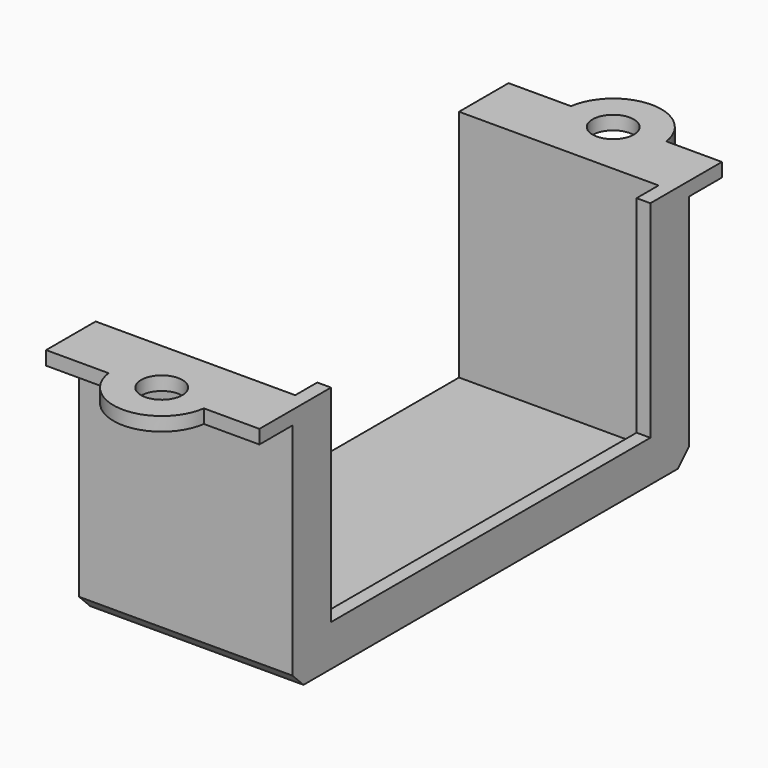
from build123d import *

# Parameters (mm, degrees)
BOX035_W          = 10
BOX035_H          = 29
BOX035_DEPTH      = 15
CYLINDER046_R     = 1.5
CYLINDER046_DEPTH = 10
BOX022_W          = 22
BOX022_H          = 8
BOX022_DEPTH      = 21
CYLINDER041_R     = 1.5
CYLINDER041_DEPTH = 10
CYLINDER051_R     = 1.5
CYLINDER051_DEPTH = 10
CYLINDER052_R     = 1.5
CYLINDER052_DEPTH = 5
CYLINDER050_R     = 1.5
CYLINDER050_DEPTH = 10
CYLINDER054_R     = 3.5
CYLINDER054_DEPTH = 5
BOX024_W          = 32
BOX024_H          = 13
BOX024_DEPTH      = 2
CYLINDER055_R     = 6.5
CYLINDER055_DEPTH = 6
BOX025_W          = 23
BOX025_H          = 13
BOX025_DEPTH      = 23
CYLINDER056_R     = 1.5
CYLINDER056_DEPTH = 10
CYLINDER058_R     = 1.5
CYLINDER058_DEPTH = 5
CYLINDER057_R     = 1.5
CYLINDER057_DEPTH = 10
CYLINDER049_R     = 3.5
CYLINDER049_DEPTH = 5
BOX023_W          = 32
BOX023_H          = 13
BOX023_DEPTH      = 2
CYLINDER053_R     = 6.5
CYLINDER053_DEPTH = 6
BOX026_W          = 23
BOX026_H          = 13
BOX026_DEPTH      = 23
CYLINDER067_R     = 1.5
CYLINDER067_DEPTH = 10
CYLINDER071_R     = 1.5
CYLINDER071_DEPTH = 5
CYLINDER069_R     = 1.5
CYLINDER069_DEPTH = 10
CYLINDER061_R     = 3.5
CYLINDER061_DEPTH = 5
BOX032_W          = 32
BOX032_H          = 13
BOX032_DEPTH      = 2
CYLINDER073_R     = 6.5
CYLINDER073_DEPTH = 6
BOX033_W          = 23
BOX033_H          = 13
BOX033_DEPTH      = 23
CYLINDER065_R     = 1.5
CYLINDER065_DEPTH = 10
CYLINDER074_R     = 1.5
CYLINDER074_DEPTH = 5
CYLINDER070_R     = 1.5
CYLINDER070_DEPTH = 10
CYLINDER063_R     = 3.5
CYLINDER063_DEPTH = 5
BOX031_W          = 32
BOX031_H          = 13
BOX031_DEPTH      = 2
CYLINDER062_R     = 6.5
CYLINDER062_DEPTH = 6
BOX029_W          = 23
BOX029_H          = 13
BOX029_DEPTH      = 23
BOX021_W          = 17.5
BOX021_H          = 3.5
BOX021_DEPTH      = 18
BOX006_W          = 17.5
BOX006_H          = 3.5
BOX006_DEPTH      = 18
BOX020_W          = 15.5
BOX020_H          = 42
BOX020_DEPTH      = 18
CYLINDER042_R     = 3.5
CYLINDER042_DEPTH = 1
CYLINDER016_R     = 1.4
CYLINDER016_DEPTH = 2.5
CYLINDER015_R     = 1.4
CYLINDER015_DEPTH = 2.5
CYLINDER045_R     = 3.5
CYLINDER045_DEPTH = 1
CHAMFER019_SIZE   = 1
CYLINDER201_R     = 1.5
CYLINDER201_DEPTH = 2.5
CYLINDER203_R     = 2.5
CYLINDER203_DEPTH = 2.5
CYLINDER204_R     = 2.5
CYLINDER204_DEPTH = 2.5
CYLINDER202_R     = 1.5
CYLINDER202_DEPTH = 2.5


with BuildPart() as obj1:
    # Box035 → Box035 (new body)
    with BuildSketch(Plane(origin=(22, -14.5, -24), x_dir=(1, 0, 0), z_dir=(0, 0, 1))):
        with Locations((5, 14.5)):
            Rectangle(BOX035_W, BOX035_H)
    extrude(amount=BOX035_DEPTH)


with BuildPart() as zylinder046:
    # Cylinder046 → Cylinder046 (new body)
    with BuildSketch(Plane(origin=(16.5, -20.5, -14), x_dir=(1, 0, 0), z_dir=(0, 0, 1))):
        Circle(CYLINDER046_R)
    extrude(amount=CYLINDER046_DEPTH)


with BuildPart() as obj2:
    # Box022 → Box022 (new body)
    with BuildSketch(Plane(origin=(1, -4, -26), x_dir=(1, 0, 0), z_dir=(0, 0, 1))):
        with Locations((11, 4)):
            Rectangle(BOX022_W, BOX022_H)
    extrude(amount=BOX022_DEPTH)


with BuildPart() as fusion094:
    # Cylinder041 → Cylinder041 (new body)
    with BuildSketch(Plane(origin=(16.5, 20.5, -14), x_dir=(1, 0, 0), z_dir=(0, 0, 1))):
        Circle(CYLINDER041_R)
    extrude(amount=CYLINDER041_DEPTH)

    # Fusion021: union Zylinder046, obj2
    add(zylinder046.part)
    add(obj2.part)

    # Fusion094: union obj1
    add(obj1.part)


with BuildPart() as zylinder051:
    # Cylinder051 → Cylinder051 (new body)
    with BuildSketch(Plane(origin=(25.5, 6.5, 13), x_dir=(1, 0, 0), z_dir=(0, 0, 1))):
        Circle(CYLINDER051_R)
    extrude(amount=CYLINDER051_DEPTH)


with BuildPart() as zylinder052:
    # Cylinder052 → Cylinder052 (new body)
    with BuildSketch(Plane(origin=(16.5, 6.5, 30), x_dir=(1, 0, 0), z_dir=(0, 0, 1))):
        Circle(CYLINDER052_R)
    extrude(amount=CYLINDER052_DEPTH)


with BuildPart() as fusion025:
    # Cylinder050 → Cylinder050 (new body)
    with BuildSketch(Plane(origin=(-2.5, 6.5, 13), x_dir=(1, 0, 0), z_dir=(0, 0, 1))):
        Circle(CYLINDER050_R)
    extrude(amount=CYLINDER050_DEPTH)

    # Fusion025: union Zylinder051, Zylinder052
    add(zylinder051.part)
    add(zylinder052.part)


with BuildPart() as zylinder054:
    # Cylinder054 → Cylinder054 (new body)
    with BuildSketch(Plane(origin=(16.5, 6.5, 29), x_dir=(1, 0, 0), z_dir=(0, 0, 1))):
        Circle(CYLINDER054_R)
    extrude(amount=CYLINDER054_DEPTH)


with BuildPart() as obj3:
    # Box024 → Box024 (new body)
    with BuildSketch(Plane(origin=(-4.5, 0, 18), x_dir=(1, 0, 0), z_dir=(0, 0, 1))):
        with Locations((16, 6.5)):
            Rectangle(BOX024_W, BOX024_H)
    extrude(amount=BOX024_DEPTH)


with BuildPart() as zylinder055:
    # Cylinder055 → Cylinder055 (new body)
    with BuildSketch(Plane(origin=(16.5, 6.5, 23), x_dir=(1, 0, 0), z_dir=(0, 0, 1))):
        Circle(CYLINDER055_R)
    extrude(amount=CYLINDER055_DEPTH)


with BuildPart() as servo2_mask001:
    # Box025 → Box025 (new body)
    with BuildSketch(Plane.XY):
        with Locations((11.5, 6.5)):
            Rectangle(BOX025_W, BOX025_H)
    extrude(amount=BOX025_DEPTH)

    # Fusion024: union Zylinder054, obj3, Zylinder055
    add(zylinder054.part)
    add(obj3.part)
    add(zylinder055.part)

    # Cut012: cut Fusion025
    add(fusion025.part, mode=Mode.SUBTRACT)


with BuildPart() as servo2_mask001_1:
    # Cut012 placement: moved
    add(servo2_mask001.part.moved(Location((0, -16.5, -26))))


with BuildPart() as zylinder056:
    # Cylinder056 → Cylinder056 (new body)
    with BuildSketch(Plane(origin=(25.5, 6.5, 13), x_dir=(1, 0, 0), z_dir=(0, 0, 1))):
        Circle(CYLINDER056_R)
    extrude(amount=CYLINDER056_DEPTH)


with BuildPart() as zylinder058:
    # Cylinder058 → Cylinder058 (new body)
    with BuildSketch(Plane(origin=(16.5, 6.5, 30), x_dir=(1, 0, 0), z_dir=(0, 0, 1))):
        Circle(CYLINDER058_R)
    extrude(amount=CYLINDER058_DEPTH)


with BuildPart() as fusion026:
    # Cylinder057 → Cylinder057 (new body)
    with BuildSketch(Plane(origin=(-2.5, 6.5, 13), x_dir=(1, 0, 0), z_dir=(0, 0, 1))):
        Circle(CYLINDER057_R)
    extrude(amount=CYLINDER057_DEPTH)

    # Fusion026: union Zylinder056, Zylinder058
    add(zylinder056.part)
    add(zylinder058.part)


with BuildPart() as zylinder049:
    # Cylinder049 → Cylinder049 (new body)
    with BuildSketch(Plane(origin=(16.5, 6.5, 29), x_dir=(1, 0, 0), z_dir=(0, 0, 1))):
        Circle(CYLINDER049_R)
    extrude(amount=CYLINDER049_DEPTH)


with BuildPart() as obj4:
    # Box023 → Box023 (new body)
    with BuildSketch(Plane(origin=(-4.5, 0, 18), x_dir=(1, 0, 0), z_dir=(0, 0, 1))):
        with Locations((16, 6.5)):
            Rectangle(BOX023_W, BOX023_H)
    extrude(amount=BOX023_DEPTH)


with BuildPart() as zylinder053:
    # Cylinder053 → Cylinder053 (new body)
    with BuildSketch(Plane(origin=(16.5, 6.5, 23), x_dir=(1, 0, 0), z_dir=(0, 0, 1))):
        Circle(CYLINDER053_R)
    extrude(amount=CYLINDER053_DEPTH)


with BuildPart() as fusion023:
    # Box026 → Box026 (new body)
    with BuildSketch(Plane.XY):
        with Locations((11.5, 6.5)):
            Rectangle(BOX026_W, BOX026_H)
    extrude(amount=BOX026_DEPTH)

    # Fusion027: union Zylinder049, obj4, Zylinder053
    add(zylinder049.part)
    add(obj4.part)
    add(zylinder053.part)

    # Cut011: cut Fusion026
    add(fusion026.part, mode=Mode.SUBTRACT)


with BuildPart() as fusion023_1:
    # Cut011 placement: moved
    add(fusion023.part.moved(Location((0, 3.5, -26))))

    # Fusion023: union Servo2_mask001
    add(servo2_mask001_1.part)


with BuildPart() as zylinder067:
    # Cylinder067 → Cylinder067 (new body)
    with BuildSketch(Plane(origin=(25.5, 6.5, 13), x_dir=(1, 0, 0), z_dir=(0, 0, 1))):
        Circle(CYLINDER067_R)
    extrude(amount=CYLINDER067_DEPTH)


with BuildPart() as zylinder071:
    # Cylinder071 → Cylinder071 (new body)
    with BuildSketch(Plane(origin=(16.5, 6.5, 30), x_dir=(1, 0, 0), z_dir=(0, 0, 1))):
        Circle(CYLINDER071_R)
    extrude(amount=CYLINDER071_DEPTH)


with BuildPart() as fusion035:
    # Cylinder069 → Cylinder069 (new body)
    with BuildSketch(Plane(origin=(-2.5, 6.5, 13), x_dir=(1, 0, 0), z_dir=(0, 0, 1))):
        Circle(CYLINDER069_R)
    extrude(amount=CYLINDER069_DEPTH)

    # Fusion035: union Zylinder067, Zylinder071
    add(zylinder067.part)
    add(zylinder071.part)


with BuildPart() as zylinder061:
    # Cylinder061 → Cylinder061 (new body)
    with BuildSketch(Plane(origin=(16.5, 6.5, 29), x_dir=(1, 0, 0), z_dir=(0, 0, 1))):
        Circle(CYLINDER061_R)
    extrude(amount=CYLINDER061_DEPTH)


with BuildPart() as obj5:
    # Box032 → Box032 (new body)
    with BuildSketch(Plane(origin=(-4.5, 0, 18), x_dir=(1, 0, 0), z_dir=(0, 0, 1))):
        with Locations((16, 6.5)):
            Rectangle(BOX032_W, BOX032_H)
    extrude(amount=BOX032_DEPTH)


with BuildPart() as zylinder073:
    # Cylinder073 → Cylinder073 (new body)
    with BuildSketch(Plane(origin=(16.5, 6.5, 23), x_dir=(1, 0, 0), z_dir=(0, 0, 1))):
        Circle(CYLINDER073_R)
    extrude(amount=CYLINDER073_DEPTH)


with BuildPart() as servo2_mask002:
    # Box033 → Box033 (new body)
    with BuildSketch(Plane.XY):
        with Locations((11.5, 6.5)):
            Rectangle(BOX033_W, BOX033_H)
    extrude(amount=BOX033_DEPTH)

    # Fusion033: union Zylinder061, obj5, Zylinder073
    add(zylinder061.part)
    add(obj5.part)
    add(zylinder073.part)

    # Cut021: cut Fusion035
    add(fusion035.part, mode=Mode.SUBTRACT)


with BuildPart() as servo2_mask002_1:
    # Cut021 placement: moved
    add(servo2_mask002.part.moved(Location((0, -16.5, -26))))


with BuildPart() as zylinder065:
    # Cylinder065 → Cylinder065 (new body)
    with BuildSketch(Plane(origin=(25.5, 6.5, 13), x_dir=(1, 0, 0), z_dir=(0, 0, 1))):
        Circle(CYLINDER065_R)
    extrude(amount=CYLINDER065_DEPTH)


with BuildPart() as zylinder074:
    # Cylinder074 → Cylinder074 (new body)
    with BuildSketch(Plane(origin=(16.5, 6.5, 30), x_dir=(1, 0, 0), z_dir=(0, 0, 1))):
        Circle(CYLINDER074_R)
    extrude(amount=CYLINDER074_DEPTH)


with BuildPart() as fusion036:
    # Cylinder070 → Cylinder070 (new body)
    with BuildSketch(Plane(origin=(-2.5, 6.5, 13), x_dir=(1, 0, 0), z_dir=(0, 0, 1))):
        Circle(CYLINDER070_R)
    extrude(amount=CYLINDER070_DEPTH)

    # Fusion036: union Zylinder065, Zylinder074
    add(zylinder065.part)
    add(zylinder074.part)


with BuildPart() as zylinder063:
    # Cylinder063 → Cylinder063 (new body)
    with BuildSketch(Plane(origin=(16.5, 6.5, 29), x_dir=(1, 0, 0), z_dir=(0, 0, 1))):
        Circle(CYLINDER063_R)
    extrude(amount=CYLINDER063_DEPTH)


with BuildPart() as obj6:
    # Box031 → Box031 (new body)
    with BuildSketch(Plane(origin=(-4.5, 0, 18), x_dir=(1, 0, 0), z_dir=(0, 0, 1))):
        with Locations((16, 6.5)):
            Rectangle(BOX031_W, BOX031_H)
    extrude(amount=BOX031_DEPTH)


with BuildPart() as zylinder062:
    # Cylinder062 → Cylinder062 (new body)
    with BuildSketch(Plane(origin=(16.5, 6.5, 23), x_dir=(1, 0, 0), z_dir=(0, 0, 1))):
        Circle(CYLINDER062_R)
    extrude(amount=CYLINDER062_DEPTH)


with BuildPart() as fusion096:
    # Box029 → Box029 (new body)
    with BuildSketch(Plane.XY):
        with Locations((11.5, 6.5)):
            Rectangle(BOX029_W, BOX029_H)
    extrude(amount=BOX029_DEPTH)

    # Fusion034: union Zylinder063, obj6, Zylinder062
    add(zylinder063.part)
    add(obj6.part)
    add(zylinder062.part)

    # Cut016: cut Fusion036
    add(fusion036.part, mode=Mode.SUBTRACT)


with BuildPart() as fusion096_1:
    # Cut016 placement: moved
    add(fusion096.part.moved(Location((0, 3.5, -26))))

    # Fusion032: union Servo2_mask002
    add(servo2_mask002_1.part)

    # Fusion096: union Fusion094, Fusion023
    add(fusion094.part)
    add(fusion023_1.part)


with BuildPart() as obj7:
    # Box021 → Box021 (new body)
    with BuildSketch(Plane(origin=(7.5, 18, -28), x_dir=(1, 0, 0), z_dir=(0, 0, 1))):
        with Locations((8.75, 1.75)):
            Rectangle(BOX021_W, BOX021_H)
    extrude(amount=BOX021_DEPTH)


with BuildPart() as fusion018:
    # Box006 → Box006 (new body)
    with BuildSketch(Plane(origin=(7.5, -21.5, -28), x_dir=(1, 0, 0), z_dir=(0, 0, 1))):
        with Locations((8.75, 1.75)):
            Rectangle(BOX006_W, BOX006_H)
    extrude(amount=BOX006_DEPTH)

    # Fusion018: union obj7
    add(obj7.part)


with BuildPart() as cut009:
    # Box020 → Box020 (new body)
    with BuildSketch(Plane(origin=(8.5, -21, -27), x_dir=(1, 0, 0), z_dir=(0, 0, 1))):
        with Locations((7.75, 21)):
            Rectangle(BOX020_W, BOX020_H)
    extrude(amount=BOX020_DEPTH)

    # Cut009: cut Fusion018
    add(fusion018.part, mode=Mode.SUBTRACT)


with BuildPart() as zylinder042:
    # Cylinder042 → Cylinder042 (new body)
    with BuildSketch(Plane(origin=(16.5, 20.5, -10), x_dir=(1, 0, 0), z_dir=(0, 0, 1))):
        Circle(CYLINDER042_R)
    extrude(amount=CYLINDER042_DEPTH)


with BuildPart() as zylinder016:
    # Cylinder016 → Cylinder016 (new body)
    with BuildSketch(Plane(origin=(16.5, -10, -29.5), x_dir=(1, 0, 0), z_dir=(0, 0, 1))):
        Circle(CYLINDER016_R)
    extrude(amount=CYLINDER016_DEPTH)


with BuildPart() as zylinder015:
    # Cylinder015 → Cylinder015 (new body)
    with BuildSketch(Plane(origin=(16.5, 10, -29.5), x_dir=(1, 0, 0), z_dir=(0, 0, 1))):
        Circle(CYLINDER015_R)
    extrude(amount=CYLINDER015_DEPTH)


with BuildPart() as chamfer019:
    # Cylinder045 → Cylinder045 (new body)
    with BuildSketch(Plane(origin=(16.5, -20.5, -10), x_dir=(1, 0, 0), z_dir=(0, 0, 1))):
        Circle(CYLINDER045_R)
    extrude(amount=CYLINDER045_DEPTH)

    # Fusion019: union Zylinder042, Zylinder016, Zylinder015
    add(zylinder042.part)
    add(zylinder016.part)
    add(zylinder015.part)

    # Fusion095: union Cut009
    add(cut009.part)

    # Cut074: cut Fusion096
    add(fusion096_1.part, mode=Mode.SUBTRACT)

    # Chamfer019
    chamfer019_edges = [chamfer019.edges().sort_by_distance(p)[0] for p in [
        (16.25, -18, -27),
        (16.25, 18, -27),
    ]]
    chamfer(chamfer019_edges, length=CHAMFER019_SIZE)


with BuildPart() as zylinder201:
    # Cylinder201 → Cylinder201 (new body)
    with BuildSketch(Plane(origin=(16.5, -10, -30.5), x_dir=(1, 0, 0), z_dir=(0, 0, 1))):
        Circle(CYLINDER201_R)
    extrude(amount=CYLINDER201_DEPTH)


with BuildPart() as zylinder203:
    # Cylinder203 → Cylinder203 (new body)
    with BuildSketch(Plane(origin=(16.5, 10, -28.5), x_dir=(1, 0, 0), z_dir=(0, 0, 1))):
        Circle(CYLINDER203_R)
    extrude(amount=CYLINDER203_DEPTH)


with BuildPart() as zylinder204:
    # Cylinder204 → Cylinder204 (new body)
    with BuildSketch(Plane(origin=(16.5, -10, -28.5), x_dir=(1, 0, 0), z_dir=(0, 0, 1))):
        Circle(CYLINDER204_R)
    extrude(amount=CYLINDER204_DEPTH)


with BuildPart() as fusion133:
    # Cylinder202 → Cylinder202 (new body)
    with BuildSketch(Plane(origin=(16.5, 10, -30.5), x_dir=(1, 0, 0), z_dir=(0, 0, 1))):
        Circle(CYLINDER202_R)
    extrude(amount=CYLINDER202_DEPTH)

    # Fusion132: union Zylinder201, Zylinder203, Zylinder204
    add(zylinder201.part)
    add(zylinder203.part)
    add(zylinder204.part)

    # Fusion133: union Chamfer019
    add(chamfer019.part)


solid = fusion133.part
